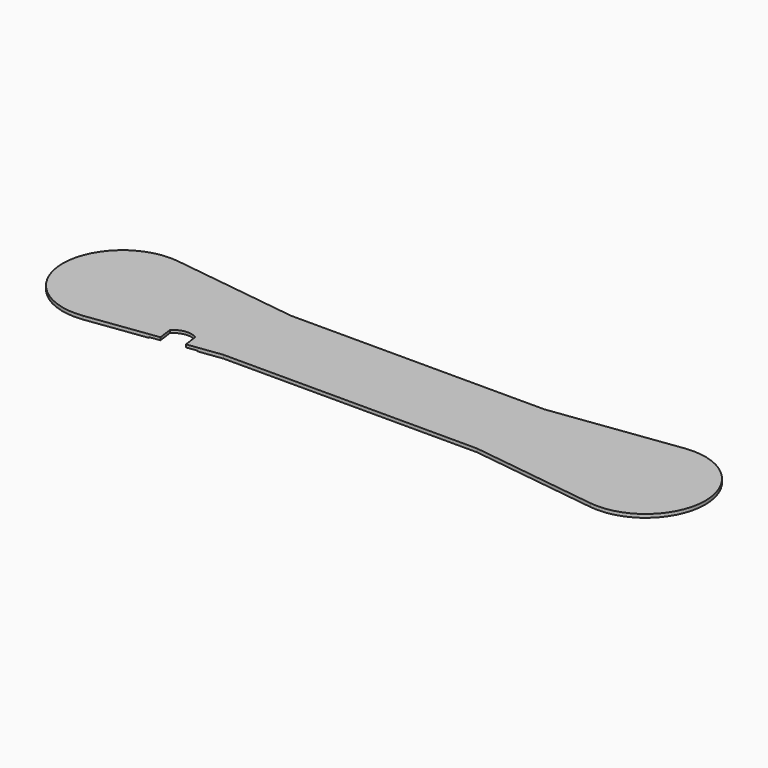
from build123d import *

# Parameters (mm, degrees)
F2_DEPTH = 10
F4_DEPTH = 10.001
F6_DEPTH = 2


with BuildPart() as f2:
    # F1 (on Top) → F2 (new body)
    with BuildSketch(Plane.XY):
        with BuildLine():
            Line((375, 125), (0, 125))
            Line((0, 125), (-375, 125))
            Line((-375, 125), (-750, 175))
            ThreePointArc((-750, 175), (-949.8820360883, 0), (-750, -175))
            Line((-750, -175), (-375, -125))
            Line((-375, -125), (0, -125))
            Line((0, -125), (375, -125))
            Line((375, -125), (750, -175))
            ThreePointArc((750, -175), (949.8820360883, 0), (750, 175))
            Line((750, 175), (375, 125))
        make_face()
    extrude(amount=F2_DEPTH)

    # F3 (on face) → F4 (cut, through all)
    with BuildSketch(Plane.XY.offset(10)):
        with BuildLine():
            Line((-543, -147.4), (-475, -138.3333333333))
            Line((-475, -138.3333333333), (-480.5508762438, -96.7017615047))
            ThreePointArc((-480.5508762438, -96.7017615047), (-516.1668220423, -89.1155013498), (-548.5508762438, -105.7684281713))
            Line((-548.5508762438, -105.7684281713), (-543, -147.4))
        make_face()
    extrude(amount=-F4_DEPTH, mode=Mode.SUBTRACT)

    # F5 (on face) → F6 (cut)
    with BuildSketch(Plane(origin=(0, 0, 0), x_dir=(1, 0, 0), z_dir=(0, 0, -1))):
        with BuildLine():
            Line((-543, 147.4), (-574, 151.5333333333))
            Line((-574, 151.5333333333), (-576.6432744018, 131.7087753197))
            ThreePointArc((-576.6432744018, 131.7087753197), (-520.3099410685, 58.042108653), (-446.6432744018, 114.3754419863))
            Line((-446.6432744018, 114.3754419863), (-444, 134.2))
            Line((-444, 134.2), (-475, 138.3333333333))
            Line((-475, 138.3333333333), (-480.5508762438, 96.7017615047))
            ThreePointArc((-480.5508762438, 96.7017615047), (-516.1668220423, 89.1155013498), (-548.5508762438, 105.7684281713))
            Line((-548.5508762438, 105.7684281713), (-543, 147.4))
        make_face()
    extrude(amount=-F6_DEPTH, mode=Mode.SUBTRACT)


solid = f2.part
